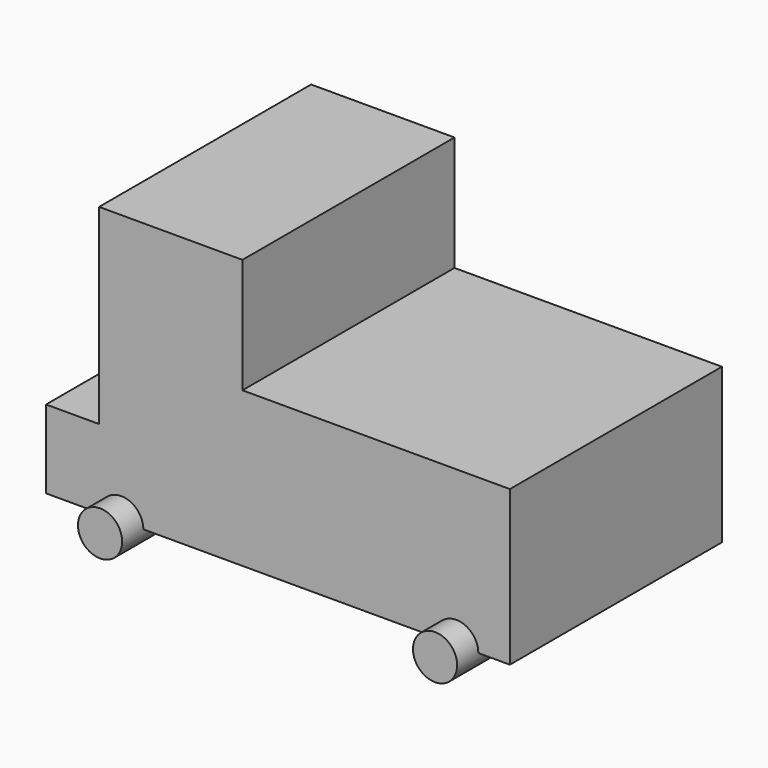
from build123d import *

# Parameters (mm, degrees)
F0_W     = 1050
F0_H     = 600
F1_DEPTH = 350
F2_W     = 444.603228569
F2_H     = 600
F3_DEPTH = 610
F4_R     = 50
F5_DEPTH = 360
F6_W     = 600
F6_H     = 432.8142261505
F7_DEPTH = 120


with BuildPart() as f1:
    # F0 (on Top) → F1 (new body)
    with BuildSketch(Plane.XY):
        Rectangle(F0_W, F0_H)
    extrude(amount=F1_DEPTH)

    # F2 (on face) → F3 (join)
    with BuildSketch(Plane(origin=(0, 0, 0), x_dir=(1, 0, 0), z_dir=(0, 0, -1))):
        with Locations((-302.6983857155, 0)):
            Rectangle(F2_W, F2_H)
    extrude(amount=-F3_DEPTH)

    # F4 (on Front) → F5 (join, symmetric)
    with BuildSketch(Plane.XZ):
        with Locations((-354.8299782291, 0)):
            Circle(F4_R)
        with Locations((403.5670862999, 0)):
            Circle(F4_R)
    extrude(amount=F5_DEPTH, both=True)

    # F6 (on face) → F7 (cut)
    with BuildSketch(Plane(origin=(-525, 0, 0), x_dir=(0, -1, 0), z_dir=(-1, 0, 0))):
        with Locations((0, 393.5928869247)):
            Rectangle(F6_W, F6_H)
    extrude(amount=-F7_DEPTH, mode=Mode.SUBTRACT)


solid = f1.part
